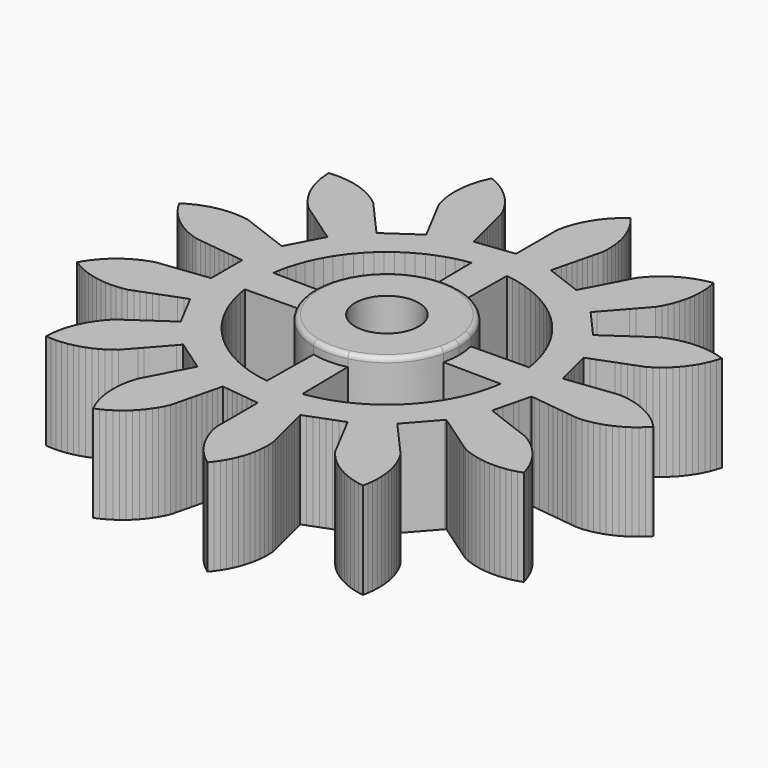
from build123d import *

# Parameters (mm, degrees)
F0_R     = 2.65
F1_DEPTH = 8
F2_R     = 2.65
F3_DEPTH = 1
F4_R     = 0.4


with BuildPart() as f1:
    # F0 (on Top) → F1 (new body)
    with BuildSketch(Plane.XY):
        Polygon((10.382417, -1.743136), (10.413784, -1.615875), (10.696508, -1.650203), (11.120593, -1.701697), (11.544679, -1.75319), (11.968765, -1.804683), (12.39285, -1.856177), (12.816936, -1.90767), (13.241021, -1.959163), (13.665107, -2.010657), (14.089192, -2.06215), (14.513278, -2.113643), (14.999577, -2.107836), (15.438656, -2.049373), (15.85245, -1.971319), (16.280043, -1.855683), (16.679997, -1.723948), (17.088695, -1.553142), (17.467877, -1.370008), (17.850595, -1.146994), (18.202434, -0.915635), (18.552539, -0.644278), (18.870936, -0.368705), (19.18236, -0.053707), (19.235458, 0), (18.924034, 0.314998), (18.612232, 0.598011), (18.262127, 0.869369), (17.915849, 1.10897), (17.533131, 1.331984), (17.158378, 1.52402), (16.74968, 1.694825), (16.352948, 1.835967), (15.925354, 1.951604), (15.513519, 2.039405), (15.07444, 2.097868), (14.654639, 2.130808), (14.230554, 2.079314), (13.806468, 2.027821), (13.382383, 1.976328), (12.958297, 1.924834), (12.534212, 1.873341), (12.110126, 1.821848), (11.686041, 1.770354), (11.261955, 1.718861), (10.83787, 1.667368), (10.413784, 1.615875), (10.307778, 2.045957), (10.201773, 2.47604), (10.095767, 2.906123), (9.989761, 3.336205), (9.883755, 3.766288), (9.777749, 4.196371), (9.671743, 4.626453), (9.640376, 4.753715), (10.039815, 4.905202), (10.439255, 5.05669), (10.838694, 5.208177), (11.238133, 5.359664), (11.637572, 5.511151), (12.037011, 5.662639), (12.436451, 5.814126), (12.83589, 5.965613), (13.235329, 6.117101), (13.634768, 6.268588), (14.009357, 6.505002), (14.352791, 6.748662), (14.693077, 7.032235), (15.001526, 7.3189), (15.301612, 7.644717), (15.56973, 7.969417), (15.824413, 8.331832), (16.047554, 8.68894), (16.252421, 9.081671), (16.426716, 9.464996), (16.578217, 9.881237), (16.700646, 10.284137), (16.278507, 10.418328), (15.870897, 10.524022), (15.434788, 10.601596), (15.016826, 10.652828), (14.574306, 10.67244), (14.498857, 10.675783), (14.05617, 10.66039), (13.636739, 10.623035), (13.199911, 10.549621), (12.789023, 10.457491), (12.365624, 10.327329), (11.970399, 10.182021), (11.537104, 9.961168), (11.185525, 9.718491), (10.833946, 9.475814), (10.482367, 9.233136), (10.130788, 8.990459), (9.779209, 8.747781), (9.42763, 8.505104), (9.076051, 8.262426), (8.724472, 8.019749), (8.372893, 7.777072), (8.138507, 7.615287), (7.844774, 7.946843), (7.551042, 8.278398), (7.257309, 8.609954), (6.963576, 8.94151), (6.669843, 9.273066), (6.37611, 9.604622), (6.082377, 9.936178), (5.995461, 10.034286), (6.278748, 10.35405), (6.562034, 10.673814), (6.84532, 10.993578), (7.128606, 11.313342), (7.411892, 11.633106), (7.695178, 11.95287), (7.978465, 12.272634), (8.261751, 12.592398), (8.545037, 12.912162), (8.828323, 13.231926), (9.050138, 13.61534), (9.240999, 13.990692), (9.410525, 14.399923), (9.550423, 14.797095), (9.664721, 15.225049), (9.751232, 15.637157), (9.80832, 16.076417), (9.839945, 16.496318), (9.838835, 16.939271), (9.815025, 17.359688), (9.755736, 17.798656), (9.676904, 18.212302), (9.240757, 18.134944), (8.830718, 18.039106), (8.408513, 17.905124), (8.014616, 17.756252), (7.613671, 17.567968), (7.242745, 17.36864), (6.870008, 17.129318), (6.528481, 16.882991), (6.190413, 16.596777), (5.884205, 16.30772), (5.586665, 15.979576), (5.321083, 15.652799), (5.122553, 15.274532), (4.924023, 14.896265), (4.725493, 14.517998), (4.526963, 14.139731), (4.328433, 13.761464), (4.129903, 13.383197), (3.931374, 13.00493), (3.732844, 12.626662), (3.534314, 12.248395), (3.335784, 11.870128), (2.921615, 12.027202), (2.507445, 12.184276), (2.093276, 12.341349), (1.679107, 12.498423), (1.264938, 12.655497), (0.850768, 12.812571), (0.436599, 12.969644), (0.314046, 13.016122), (0.416282, 13.430909), (0.518517, 13.845696), (0.620753, 14.260482), (0.722989, 14.675269), (0.825225, 15.090055), (0.92746, 15.504842), (1.029696, 15.919629), (1.131932, 16.334415), (1.234168, 16.749202), (1.336403, 17.163989), (1.354629, 17.606568), (1.349193, 18.027623), (1.309122, 18.468761), (1.248421, 18.885454), (1.150746, 19.317504), (1.035832, 19.722612), (0.882247, 20.138088), (0.715111, 20.524589), (0.508278, 20.916288), (0.291818, 21.277484), (0.035321, 21.638618), (-0.226712, 21.968248), (-0.576951, 21.697064), (-0.895485, 21.421648), (-1.207064, 21.106805), (-1.486658, 20.791932), (-1.754177, 20.438886), (-1.989984, 20.090013), (-2.208807, 19.704883), (-2.396741, 19.328056), (-2.563075, 18.917519), (-2.699877, 18.519269), (-2.810839, 18.090439), (-2.89414, 17.67767), (-2.89414, 17.250469), (-2.89414, 16.823269), (-2.89414, 16.396069), (-2.89414, 15.968868), (-2.89414, 15.541668), (-2.89414, 15.114468), (-2.89414, 14.687268), (-2.89414, 14.260067), (-2.89414, 13.832867), (-2.89414, 13.405667), (-3.333864, 13.352274), (-3.773589, 13.298882), (-4.213313, 13.24549), (-4.653038, 13.192098), (-5.092762, 13.138706), (-5.532487, 13.085313), (-5.972211, 13.031921), (-6.102326, 13.016122), (-6.204562, 13.430909), (-6.306797, 13.845696), (-6.409033, 14.260482), (-6.511269, 14.675269), (-6.613505, 15.090055), (-6.71574, 15.504842), (-6.817976, 15.919629), (-6.920212, 16.334415), (-7.022448, 16.749202), (-7.124683, 17.163989), (-7.314222, 17.564343), (-7.514709, 17.934643), (-7.755198, 18.306629), (-8.002593, 18.647383), (-8.289863, 18.984553), (-8.579878, 19.289855), (-8.908952, 19.586365), (-9.236559, 19.850923), (-9.601732, 20.101636), (-9.961254, 20.320865), (-10.356198, 20.521433), (-10.741403, 20.691533), (-10.925499, 20.288647), (-11.079555, 19.896749), (-11.20913, 19.473171), (-11.310369, 19.064431), (-11.383177, 18.627502), (-11.429844, 18.209005), (-11.444624, 17.766297), (-11.43591, 17.345297), (-11.392406, 16.904484), (-11.328462, 16.488277), (-11.227427, 16.057), (-11.109363, 15.652799), (-10.910833, 15.274532), (-10.712303, 14.896265), (-10.513773, 14.517998), (-10.315243, 14.139731), (-10.116713, 13.761464), (-9.918183, 13.383197), (-9.719654, 13.00493), (-9.521124, 12.626662), (-9.322594, 12.248395), (-9.124064, 11.870128), (-9.488608, 11.618502), (-9.853152, 11.366875), (-10.217696, 11.115249), (-10.58224, 10.863622), (-10.946784, 10.611995), (-11.311328, 10.360369), (-11.675873, 10.108742), (-11.783741, 10.034286), (-12.067028, 10.35405), (-12.350314, 10.673814), (-12.6336, 10.993578), (-12.916886, 11.313342), (-13.200172, 11.633106), (-13.483458, 11.95287), (-13.766745, 12.272634), (-14.050031, 12.592398), (-14.333317, 12.912162), (-14.616603, 13.231926), (-14.970485, 13.498339), (-15.320095, 13.733052), (-15.705908, 13.950669), (-16.083321, 14.137421), (-16.494377, 14.302469), (-16.893053, 14.438024), (-17.322229, 14.547643), (-17.735257, 14.629651), (-18.175114, 14.681941), (-18.595335, 14.70898), (-18.768187, 14.711215), (-19.210791, 14.693603), (-19.458382, 14.674638), (-19.43416, 14.232346), (-19.388445, 13.813744), (-19.306332, 13.378468), (-19.206023, 12.969499), (-19.067441, 12.548781), (-18.914277, 12.156534), (-18.721628, 11.757667), (-18.518263, 11.388939), (-18.274886, 11.018837), (-18.024846, 10.680019), (-17.734959, 10.345096), (-17.442577, 10.042061), (-17.090998, 9.799383), (-16.739419, 9.556706), (-16.38784, 9.314029), (-16.036261, 9.071351), (-15.684682, 8.828674), (-15.333103, 8.585996), (-14.981524, 8.343319), (-14.629945, 8.100641), (-14.278366, 7.857964), (-13.926787, 7.615287), (-14.132638, 7.22307), (-14.338489, 6.830854), (-14.544341, 6.438637), (-14.750192, 6.046421), (-14.956043, 5.654205), (-15.161894, 5.261988), (-15.367745, 4.869772), (-15.428656, 4.753715), (-15.828095, 4.905202), (-16.227535, 5.05669), (-16.626974, 5.208177), (-17.026413, 5.359664), (-17.425852, 5.511151), (-17.825291, 5.662639), (-18.224731, 5.814126), (-18.62417, 5.965613), (-19.023609, 6.117101), (-19.423048, 6.268588), (-19.860203, 6.340028), (-20.278844, 6.385385), (-20.721596, 6.398778), (-20.797085, 6.401062), (-21.239511, 6.379452), (-21.658376, 6.336209), (-22.094129, 6.256666), (-22.503683, 6.158774), (-22.925212, 6.022678), (-23.318357, 5.871833), (-23.718354, 5.681541), (-24.088276, 5.480357), (-24.380692, 5.295959), (-24.153701, 4.915586), (-23.918689, 4.566177), (-23.643698, 4.218919), (-23.364822, 3.903411), (-23.046596, 3.595287), (-22.72869, 3.319147), (-22.372745, 3.055497), (-22.021318, 2.823513), (-21.633823, 2.608906), (-21.254967, 2.425098), (-20.842638, 2.263255), (-20.442919, 2.130808), (-20.018834, 2.079314), (-19.594748, 2.027821), (-19.170663, 1.976328), (-18.746577, 1.924834), (-18.322492, 1.873341), (-17.898406, 1.821848), (-17.474321, 1.770354), (-17.050235, 1.718861), (-16.62615, 1.667368), (-16.202064, 1.615875), (-16.202064, 1.17292), (-16.202064, 0.729966), (-16.202064, 0.287012), (-16.202064, -0.155942), (-16.202064, -0.598896), (-16.202064, -1.04185), (-16.202064, -1.484804), (-16.202064, -1.615875), (-16.62615, -1.667368), (-17.050235, -1.718861), (-17.474321, -1.770354), (-17.898406, -1.821848), (-18.322492, -1.873341), (-18.746577, -1.924834), (-19.170663, -1.976328), (-19.594748, -2.027821), (-20.018834, -2.079314), (-20.442919, -2.130808), (-20.863201, -2.270707), (-21.254967, -2.425098), (-21.653229, -2.618995), (-22.021318, -2.823513), (-22.390657, -3.068047), (-22.72869, -3.319147), (-23.062704, -3.610081), (-23.364822, -3.903411), (-23.657723, -4.235702), (-23.918689, -4.566177), (-24.1654, -4.934066), (-24.380692, -5.295959), (-24.002934, -5.527275), (-23.632462, -5.727446), (-23.227591, -5.907133), (-22.834034, -6.056902), (-22.409067, -6.181845), (-21.999246, -6.278616), (-21.561548, -6.346651), (-21.142567, -6.388747), (-20.699724, -6.398693), (-20.278844, -6.385385), (-19.838533, -6.337071), (-19.423048, -6.268588), (-19.023609, -6.117101), (-18.62417, -5.965613), (-18.224731, -5.814126), (-17.825291, -5.662639), (-17.425852, -5.511151), (-17.026413, -5.359664), (-16.626974, -5.208177), (-16.227535, -5.05669), (-15.828095, -4.905202), (-15.428656, -4.753715), (-15.222805, -5.145931), (-15.016954, -5.538148), (-14.811103, -5.930364), (-14.605252, -6.32258), (-14.399401, -6.714797), (-14.19355, -7.107013), (-13.987699, -7.49923), (-13.926787, -7.615287), (-14.278366, -7.857964), (-14.629945, -8.100642), (-14.981524, -8.343319), (-15.333103, -8.585996), (-15.684682, -8.828674), (-16.036261, -9.071351), (-16.38784, -9.314029), (-16.739419, -9.556706), (-17.090998, -9.799383), (-17.442577, -10.042061), (-17.749703, -10.36125), (-18.024846, -10.680019), (-18.28738, -11.036788), (-18.518263, -11.388939), (-18.731656, -11.777104), (-18.914277, -12.156534), (-19.074828, -12.569367), (-19.206023, -12.969499), (-19.310951, -13.399846), (-19.388445, -13.813744), (-19.435931, -14.254146), (-19.458382, -14.674638), (-19.016395, -14.703905), (-18.595335, -14.70898), (-18.153335, -14.679932), (-17.735257, -14.629651), (-17.300903, -14.542791), (-16.893053, -14.438024), (-16.473873, -14.294857), (-16.083321, -14.137421), (-15.686581, -13.940429), (-15.320095, -13.733052), (-14.952671, -13.485649), (-14.616603, -13.231926), (-14.333317, -12.912162), (-14.050031, -12.592398), (-13.766745, -12.272634), (-13.483458, -11.95287), (-13.200172, -11.633106), (-12.916886, -11.313342), (-12.6336, -10.993578), (-12.350314, -10.673814), (-12.067028, -10.35405), (-11.783741, -10.034286), (-11.419197, -10.285912), (-11.054653, -10.537539), (-10.690109, -10.789165), (-10.325565, -11.040792), (-9.961021, -11.292419), (-9.596477, -11.544045), (-9.231933, -11.795672), (-9.124064, -11.870128), (-9.322594, -12.248395), (-9.521124, -12.626662), (-9.719654, -13.00493), (-9.918183, -13.383197), (-10.116713, -13.761464), (-10.315243, -14.139731), (-10.513773, -14.517998), (-10.712303, -14.896265), (-10.910833, -15.274532), (-11.109363, -15.652799), (-11.232975, -16.078156), (-11.328462, -16.488277), (-11.395126, -16.926186), (-11.43591, -17.345297), (-11.44447, -17.788168), (-11.429844, -18.209005), (-11.380152, -18.649163), (-11.310369, -19.064431), (-11.203285, -19.494247), (-11.079555, -19.896749), (-10.916936, -20.308773), (-10.741403, -20.691533), (-10.336443, -20.512047), (-9.961254, -20.320865), (-9.583381, -20.089736), (-9.236559, -19.850923), (-8.892323, -19.572158), (-8.579878, -19.289855), (-8.275245, -18.968284), (-8.002593, -18.647383), (-7.742844, -18.288581), (-7.514709, -17.934643), (-7.304345, -17.544828), (-7.124683, -17.163989), (-7.022448, -16.749202), (-6.920212, -16.334415), (-6.817976, -15.919629), (-6.71574, -15.504842), (-6.613505, -15.090055), (-6.511269, -14.675269), (-6.409033, -14.260482), (-6.306797, -13.845696), (-6.204562, -13.430909), (-6.102326, -13.016122), (-5.662602, -13.069515), (-5.222877, -13.122907), (-4.783153, -13.176299), (-4.343428, -13.229691), (-3.903704, -13.283083), (-3.463979, -13.336476), (-3.024255, -13.389868), (-2.89414, -13.405667), (-2.89414, -13.832867), (-2.89414, -14.260067), (-2.89414, -14.687268), (-2.89414, -15.114468), (-2.89414, -15.541668), (-2.89414, -15.968868), (-2.89414, -16.396069), (-2.89414, -16.823269), (-2.89414, -17.250469), (-2.89414, -17.67767), (-2.80592, -18.11175), (-2.699877, -18.519269), (-2.555399, -18.937999), (-2.396741, -19.328056), (-2.198507, -19.724177), (-1.989984, -20.090013), (-1.741432, -20.45666), (-1.486658, -20.791932), (-1.192095, -21.122751), (-0.895485, -21.421648), (-0.560016, -21.710905), (-0.226712, -21.968248), (0.048451, -21.621126), (0.291818, -21.277484), (0.518997, -20.897223), (0.715111, -20.524589), (0.890368, -20.11778), (1.035832, -19.722612), (1.156129, -19.296306), (1.248421, -18.885454), (1.311673, -18.447039), (1.349193, -18.027623), (1.354305, -17.584699), (1.336403, -17.163989), (1.234168, -16.749202), (1.131932, -16.334415), (1.029696, -15.919629), (0.92746, -15.504842), (0.825225, -15.090055), (0.722989, -14.675269), (0.620753, -14.260482), (0.518517, -13.845696), (0.416282, -13.430909), (0.314046, -13.016122), (0.728215, -12.859049), (1.142385, -12.701975), (1.556554, -12.544901), (1.970723, -12.387828), (2.384892, -12.230754), (2.799062, -12.07368), (3.213231, -11.916607), (3.335784, -11.870128), (3.534314, -12.248395), (3.732844, -12.626662), (3.931374, -13.00493), (4.129903, -13.383197), (4.328433, -13.761464), (4.526963, -14.139731), (4.725493, -14.517998), (4.924023, -14.896265), (5.122553, -15.274532), (5.321083, -15.652799), (5.600925, -15.99616), (5.884205, -16.30772), (6.206727, -16.611344), (6.528481, -16.882991), (6.888094, -17.141615), (7.242745, -17.36864), (7.633216, -17.577783), (8.014616, -17.756252), (8.429178, -17.912287), (8.830718, -18.039106), (9.262185, -18.13933), (9.676904, -18.212302), (9.759234, -17.777066), (9.815025, -17.359688), (9.839466, -16.917408), (9.839945, -16.496318), (9.806074, -16.054661), (9.751232, -15.637157), (9.659636, -15.203776), (9.550423, -14.797095), (9.402689, -14.379503), (9.240999, -13.990692), (9.039688, -13.596126), (8.828323, -13.231926), (8.545037, -12.912162), (8.261751, -12.592398), (7.978465, -12.272634), (7.695178, -11.95287), (7.411892, -11.633106), (7.128606, -11.313342), (6.84532, -10.993578), (6.562034, -10.673814), (6.278748, -10.35405), (5.995461, -10.034286), (6.289194, -9.70273), (6.582927, -9.371174), (6.87666, -9.039618), (7.170393, -8.708062), (7.464126, -8.376506), (7.757859, -8.04495), (8.051592, -7.713394), (8.138507, -7.615287), (8.490086, -7.857964), (8.841665, -8.100641), (9.193244, -8.343319), (9.544823, -8.585996), (9.896402, -8.828674), (10.247981, -9.071351), (10.59956, -9.314029), (10.951139, -9.556706), (11.302718, -9.799383), (11.654297, -10.042061), (12.061652, -10.216043), (12.457274, -10.360269), (12.883954, -10.479231), (13.295094, -10.570236), (13.733704, -10.632116), (14.153235, -10.668322), (14.596174, -10.672047), (15.016826, -10.652828), (15.456415, -10.598334), (15.870897, -10.524022), (16.299518, -10.412253), (16.700646, -10.284137), (16.57128, -9.860494), (16.426716, -9.464996), (16.24282, -9.062019), (16.047554, -8.68894), (15.812314, -8.313612), (15.56973, -7.969417), (15.287224, -7.628245), (15.001526, -7.3189), (14.67665, -7.017796), (14.352791, -6.748662), (13.991175, -6.492845), (13.634768, -6.268588), (13.235329, -6.117101), (12.83589, -5.965613), (12.436451, -5.814126), (12.037011, -5.662639), (11.637572, -5.511151), (11.238133, -5.359664), (10.838694, -5.208177), (10.439255, -5.05669), (10.039815, -4.905202), (9.640376, -4.753715), (9.746382, -4.323632), (9.852388, -3.89355), (9.958394, -3.463467), (10.0644, -3.033384), (10.170405, -2.603302), (10.276411, -2.173219), align=None)
        with BuildLine():
            ThreePointArc((-8.724542, -1.416478), (-8.89414, 0), (-8.724542, 1.416478))
            Line((-8.724542, 1.416478), (-13.511389, 1.478821))
            Line((-13.511389, 1.478821), (-13.427465, 2.008911))
            Line((-13.427465, 2.008911), (-13.280309, 2.667236))
            Line((-13.280309, 2.667236), (-13.092748, 3.312744))
            Line((-13.092748, 3.312744), (-12.864172, 3.947754))
            Line((-12.864172, 3.947754), (-12.596533, 4.566101))
            Line((-12.596533, 4.566101), (-12.290869, 5.166077))
            Line((-12.290869, 5.166077), (-11.9484, 5.745117))
            Line((-11.9484, 5.745117), (-11.56925, 6.30304))
            Line((-11.56925, 6.30304), (-11.156103, 6.835693))
            Line((-11.156103, 6.835693), (-10.711706, 7.339722))
            Line((-10.711706, 7.339722), (-10.233862, 7.817566))
            Line((-10.233862, 7.817566), (-9.729833, 8.261963))
            Line((-9.729833, 8.261963), (-9.19718, 8.67511))
            Line((-9.19718, 8.67511), (-8.639257, 9.05426))
            Line((-8.639257, 9.05426), (-8.060217, 9.396729))
            Line((-8.060217, 9.396729), (-7.460241, 9.702393))
            Line((-7.460241, 9.702393), (-6.841894, 9.970032))
            Line((-6.841894, 9.970032), (-6.206884, 10.198608))
            Line((-6.206884, 10.198608), (-5.561376, 10.386169))
            Line((-5.561376, 10.386169), (-4.903051, 10.533325))
            Line((-4.903051, 10.533325), (-4.372961, 10.617249))
            Line((-4.372961, 10.617249), (-4.310618, 5.830402))
            ThreePointArc((-4.310618, 5.830402), (-2.89414, 6), (-1.477662, 5.830402))
            Line((-1.477662, 5.830402), (-1.415319, 10.617249))
            Line((-1.415319, 10.617249), (-0.885229, 10.533325))
            Line((-0.885229, 10.533325), (-0.226904, 10.386169))
            Line((-0.226904, 10.386169), (0.418604, 10.198608))
            Line((0.418604, 10.198608), (1.053614, 9.970032))
            Line((1.053614, 9.970032), (1.671961, 9.702393))
            Line((1.671961, 9.702393), (2.271937, 9.396729))
            Line((2.271937, 9.396729), (2.850977, 9.05426))
            Line((2.850977, 9.05426), (3.4089, 8.67511))
            Line((3.4089, 8.67511), (3.941553, 8.261963))
            Line((3.941553, 8.261963), (4.445582, 7.817566))
            Line((4.445582, 7.817566), (4.923426, 7.339722))
            Line((4.923426, 7.339722), (5.367823, 6.835693))
            Line((5.367823, 6.835693), (5.78097, 6.30304))
            Line((5.78097, 6.30304), (6.16012, 5.745117))
            Line((6.16012, 5.745117), (6.502589, 5.166077))
            Line((6.502589, 5.166077), (6.808253, 4.566101))
            Line((6.808253, 4.566101), (7.075892, 3.947754))
            Line((7.075892, 3.947754), (7.304468, 3.312744))
            Line((7.304468, 3.312744), (7.492029, 2.667236))
            Line((7.492029, 2.667236), (7.639185, 2.008911))
            Line((7.639185, 2.008911), (7.723109, 1.478821))
            Line((7.723109, 1.478821), (2.936262, 1.416478))
            ThreePointArc((2.936262, 1.416478), (3.06331, 0.713297), (3.10586, 0))
            ThreePointArc((3.10586, 0), (3.06331, -0.713297), (2.936262, -1.416478))
            Line((2.936262, -1.416478), (7.723109, -1.478821))
            Line((7.723109, -1.478821), (7.639185, -2.008911))
            Line((7.639185, -2.008911), (7.492029, -2.667236))
            Line((7.492029, -2.667236), (7.304468, -3.312744))
            Line((7.304468, -3.312744), (7.075892, -3.947754))
            Line((7.075892, -3.947754), (6.808253, -4.566101))
            Line((6.808253, -4.566101), (6.502589, -5.166077))
            Line((6.502589, -5.166077), (6.16012, -5.745117))
            Line((6.16012, -5.745117), (5.78097, -6.30304))
            Line((5.78097, -6.30304), (5.367823, -6.835693))
            Line((5.367823, -6.835693), (4.923426, -7.339722))
            Line((4.923426, -7.339722), (4.445582, -7.817566))
            Line((4.445582, -7.817566), (3.941553, -8.261963))
            Line((3.941553, -8.261963), (3.4089, -8.67511))
            Line((3.4089, -8.67511), (2.850977, -9.05426))
            Line((2.850977, -9.05426), (2.271937, -9.396729))
            Line((2.271937, -9.396729), (1.671961, -9.702393))
            Line((1.671961, -9.702393), (1.053614, -9.970032))
            Line((1.053614, -9.970032), (0.418604, -10.198608))
            Line((0.418604, -10.198608), (-0.226904, -10.386169))
            Line((-0.226904, -10.386169), (-0.885229, -10.533325))
            Line((-0.885229, -10.533325), (-1.415319, -10.617249))
            Line((-1.415319, -10.617249), (-1.477662, -5.830402))
            ThreePointArc((-1.477662, -5.830402), (-2.89414, -6), (-4.310618, -5.830402))
            Line((-4.310618, -5.830402), (-4.372961, -10.617249))
            Line((-4.372961, -10.617249), (-4.903051, -10.533325))
            Line((-4.903051, -10.533325), (-5.561376, -10.386169))
            Line((-5.561376, -10.386169), (-6.206884, -10.198608))
            Line((-6.206884, -10.198608), (-6.841894, -9.970032))
            Line((-6.841894, -9.970032), (-7.460241, -9.702393))
            Line((-7.460241, -9.702393), (-8.060217, -9.396729))
            Line((-8.060217, -9.396729), (-8.639257, -9.05426))
            Line((-8.639257, -9.05426), (-9.19718, -8.67511))
            Line((-9.19718, -8.67511), (-9.729833, -8.261963))
            Line((-9.729833, -8.261963), (-10.233862, -7.817566))
            Line((-10.233862, -7.817566), (-10.711706, -7.339722))
            Line((-10.711706, -7.339722), (-11.156103, -6.835693))
            Line((-11.156103, -6.835693), (-11.56925, -6.30304))
            Line((-11.56925, -6.30304), (-11.9484, -5.745117))
            Line((-11.9484, -5.745117), (-12.290869, -5.166077))
            Line((-12.290869, -5.166077), (-12.596533, -4.566101))
            Line((-12.596533, -4.566101), (-12.864172, -3.947754))
            Line((-12.864172, -3.947754), (-13.092748, -3.312744))
            Line((-13.092748, -3.312744), (-13.280309, -2.667236))
            Line((-13.280309, -2.667236), (-13.427465, -2.008911))
            Line((-13.427465, -2.008911), (-13.511389, -1.478821))
            Line((-13.511389, -1.478821), (-8.724542, -1.416478))
        make_face(mode=Mode.SUBTRACT)
        with BuildLine():
            Line((-6.948766, 1.907959), (-7.060583, 1.649597))
            Line((-7.060583, 1.649597), (-7.151891, 1.395996))
            Line((-7.151891, 1.395996), (-8.724542, 1.416478))
            ThreePointArc((-8.724542, 1.416478), (-8.89414, 0), (-8.724542, -1.416478))
            Line((-8.724542, -1.416478), (-7.151891, -1.395996))
            Line((-7.151891, -1.395996), (-7.060583, -1.649597))
            Line((-7.060583, -1.649597), (-6.948766, -1.907959))
            Line((-6.948766, -1.907959), (-6.820959, -2.158752))
            Line((-6.820959, -2.158752), (-6.677648, -2.401062))
            Line((-6.677648, -2.401062), (-6.519445, -2.633911))
            Line((-6.519445, -2.633911), (-6.346899, -2.856323))
            Line((-6.346899, -2.856323), (-6.160742, -3.067505))
            Line((-6.160742, -3.067505), (-5.961645, -3.266602))
            Line((-5.961645, -3.266602), (-5.750463, -3.452759))
            Line((-5.750463, -3.452759), (-5.528051, -3.625305))
            Line((-5.528051, -3.625305), (-5.295202, -3.783508))
            Line((-5.295202, -3.783508), (-5.052892, -3.926819))
            Line((-5.052892, -3.926819), (-4.802099, -4.054626))
            Line((-4.802099, -4.054626), (-4.543737, -4.166443))
            Line((-4.543737, -4.166443), (-4.290136, -4.257751))
            Line((-4.290136, -4.257751), (-4.310618, -5.830402))
            ThreePointArc((-4.310618, -5.830402), (-2.89414, -6), (-1.477662, -5.830402))
            Line((-1.477662, -5.830402), (-1.498144, -4.257751))
            Line((-1.498144, -4.257751), (-1.244543, -4.166443))
            Line((-1.244543, -4.166443), (-0.986181, -4.054626))
            Line((-0.986181, -4.054626), (-0.735388, -3.926819))
            Line((-0.735388, -3.926819), (-0.493078, -3.783508))
            Line((-0.493078, -3.783508), (-0.260229, -3.625305))
            Line((-0.260229, -3.625305), (-0.037817, -3.452759))
            Line((-0.037817, -3.452759), (0.173365, -3.266602))
            Line((0.173365, -3.266602), (0.372462, -3.067505))
            Line((0.372462, -3.067505), (0.558619, -2.856323))
            Line((0.558619, -2.856323), (0.731165, -2.633911))
            Line((0.731165, -2.633911), (0.889368, -2.401062))
            Line((0.889368, -2.401062), (1.032679, -2.158752))
            Line((1.032679, -2.158752), (1.160486, -1.907959))
            Line((1.160486, -1.907959), (1.272303, -1.649597))
            Line((1.272303, -1.649597), (1.363611, -1.395996))
            Line((1.363611, -1.395996), (2.936262, -1.416478))
            ThreePointArc((2.936262, -1.416478), (3.06331, -0.713297), (3.10586, 0))
            ThreePointArc((3.10586, 0), (3.06331, 0.713297), (2.936262, 1.416478))
            Line((2.936262, 1.416478), (1.363611, 1.395996))
            Line((1.363611, 1.395996), (1.272303, 1.649597))
            Line((1.272303, 1.649597), (1.160486, 1.907959))
            Line((1.160486, 1.907959), (1.032679, 2.158752))
            Line((1.032679, 2.158752), (0.889368, 2.401062))
            Line((0.889368, 2.401062), (0.731165, 2.633911))
            Line((0.731165, 2.633911), (0.558619, 2.856323))
            Line((0.558619, 2.856323), (0.372462, 3.067505))
            Line((0.372462, 3.067505), (0.173365, 3.266602))
            Line((0.173365, 3.266602), (-0.037817, 3.452759))
            Line((-0.037817, 3.452759), (-0.260229, 3.625305))
            Line((-0.260229, 3.625305), (-0.493078, 3.783508))
            Line((-0.493078, 3.783508), (-0.735388, 3.926819))
            Line((-0.735388, 3.926819), (-0.986181, 4.054626))
            Line((-0.986181, 4.054626), (-1.244543, 4.166443))
            Line((-1.244543, 4.166443), (-1.498144, 4.257751))
            Line((-1.498144, 4.257751), (-1.477662, 5.830402))
            ThreePointArc((-1.477662, 5.830402), (-2.89414, 6), (-4.310618, 5.830402))
            Line((-4.310618, 5.830402), (-4.290136, 4.257751))
            Line((-4.290136, 4.257751), (-4.543737, 4.166443))
            Line((-4.543737, 4.166443), (-4.802099, 4.054626))
            Line((-4.802099, 4.054626), (-5.052892, 3.926819))
            Line((-5.052892, 3.926819), (-5.295202, 3.783508))
            Line((-5.295202, 3.783508), (-5.528051, 3.625305))
            Line((-5.528051, 3.625305), (-5.750463, 3.452759))
            Line((-5.750463, 3.452759), (-5.961645, 3.266602))
            Line((-5.961645, 3.266602), (-6.160742, 3.067505))
            Line((-6.160742, 3.067505), (-6.346899, 2.856323))
            Line((-6.346899, 2.856323), (-6.519445, 2.633911))
            Line((-6.519445, 2.633911), (-6.677648, 2.401062))
            Line((-6.677648, 2.401062), (-6.820959, 2.158752))
            Line((-6.820959, 2.158752), (-6.948766, 1.907959))
        make_face()
        with Locations((-2.89414, 0)):
            Circle(F0_R, mode=Mode.SUBTRACT)
        with BuildLine():
            Line((-7.151891, 1.395996), (-7.060583, 1.649597))
            Line((-7.060583, 1.649597), (-6.948766, 1.907959))
            Line((-6.948766, 1.907959), (-6.820959, 2.158752))
            Line((-6.820959, 2.158752), (-6.677648, 2.401062))
            Line((-6.677648, 2.401062), (-6.519445, 2.633911))
            Line((-6.519445, 2.633911), (-6.346899, 2.856323))
            Line((-6.346899, 2.856323), (-6.160742, 3.067505))
            Line((-6.160742, 3.067505), (-5.961645, 3.266602))
            Line((-5.961645, 3.266602), (-5.750463, 3.452759))
            Line((-5.750463, 3.452759), (-5.528051, 3.625305))
            Line((-5.528051, 3.625305), (-5.295202, 3.783508))
            Line((-5.295202, 3.783508), (-5.052892, 3.926819))
            Line((-5.052892, 3.926819), (-4.802099, 4.054626))
            Line((-4.802099, 4.054626), (-4.543737, 4.166443))
            Line((-4.543737, 4.166443), (-4.290136, 4.257751))
            Line((-4.290136, 4.257751), (-4.310618, 5.830402))
            ThreePointArc((-4.310618, 5.830402), (-7.136781, 4.242641), (-8.724542, 1.416478))
            Line((-8.724542, 1.416478), (-7.151891, 1.395996))
        make_face()
        with BuildLine():
            ThreePointArc((2.936262, 1.416478), (1.348501, 4.242641), (-1.477662, 5.830402))
            Line((-1.477662, 5.830402), (-1.498144, 4.257751))
            Line((-1.498144, 4.257751), (-1.244543, 4.166443))
            Line((-1.244543, 4.166443), (-0.986181, 4.054626))
            Line((-0.986181, 4.054626), (-0.735388, 3.926819))
            Line((-0.735388, 3.926819), (-0.493078, 3.783508))
            Line((-0.493078, 3.783508), (-0.260229, 3.625305))
            Line((-0.260229, 3.625305), (-0.037817, 3.452759))
            Line((-0.037817, 3.452759), (0.173365, 3.266602))
            Line((0.173365, 3.266602), (0.372462, 3.067505))
            Line((0.372462, 3.067505), (0.558619, 2.856323))
            Line((0.558619, 2.856323), (0.731165, 2.633911))
            Line((0.731165, 2.633911), (0.889368, 2.401062))
            Line((0.889368, 2.401062), (1.032679, 2.158752))
            Line((1.032679, 2.158752), (1.160486, 1.907959))
            Line((1.160486, 1.907959), (1.272303, 1.649597))
            Line((1.272303, 1.649597), (1.363611, 1.395996))
            Line((1.363611, 1.395996), (2.936262, 1.416478))
        make_face()
        with BuildLine():
            Line((-1.498144, -4.257751), (-1.477662, -5.830402))
            ThreePointArc((-1.477662, -5.830402), (1.348501, -4.242641), (2.936262, -1.416478))
            Line((2.936262, -1.416478), (1.363611, -1.395996))
            Line((1.363611, -1.395996), (1.272303, -1.649597))
            Line((1.272303, -1.649597), (1.160486, -1.907959))
            Line((1.160486, -1.907959), (1.032679, -2.158752))
            Line((1.032679, -2.158752), (0.889368, -2.401062))
            Line((0.889368, -2.401062), (0.731165, -2.633911))
            Line((0.731165, -2.633911), (0.558619, -2.856323))
            Line((0.558619, -2.856323), (0.372462, -3.067505))
            Line((0.372462, -3.067505), (0.173365, -3.266602))
            Line((0.173365, -3.266602), (-0.037817, -3.452759))
            Line((-0.037817, -3.452759), (-0.260229, -3.625305))
            Line((-0.260229, -3.625305), (-0.493078, -3.783508))
            Line((-0.493078, -3.783508), (-0.735388, -3.926819))
            Line((-0.735388, -3.926819), (-0.986181, -4.054626))
            Line((-0.986181, -4.054626), (-1.244543, -4.166443))
            Line((-1.244543, -4.166443), (-1.498144, -4.257751))
        make_face()
        with BuildLine():
            Line((-7.151891, -1.395996), (-8.724542, -1.416478))
            ThreePointArc((-8.724542, -1.416478), (-7.136781, -4.242641), (-4.310618, -5.830402))
            Line((-4.310618, -5.830402), (-4.290136, -4.257751))
            Line((-4.290136, -4.257751), (-4.543737, -4.166443))
            Line((-4.543737, -4.166443), (-4.802099, -4.054626))
            Line((-4.802099, -4.054626), (-5.052892, -3.926819))
            Line((-5.052892, -3.926819), (-5.295202, -3.783508))
            Line((-5.295202, -3.783508), (-5.528051, -3.625305))
            Line((-5.528051, -3.625305), (-5.750463, -3.452759))
            Line((-5.750463, -3.452759), (-5.961645, -3.266602))
            Line((-5.961645, -3.266602), (-6.160742, -3.067505))
            Line((-6.160742, -3.067505), (-6.346899, -2.856323))
            Line((-6.346899, -2.856323), (-6.519445, -2.633911))
            Line((-6.519445, -2.633911), (-6.677648, -2.401062))
            Line((-6.677648, -2.401062), (-6.820959, -2.158752))
            Line((-6.820959, -2.158752), (-6.948766, -1.907959))
            Line((-6.948766, -1.907959), (-7.060583, -1.649597))
            Line((-7.060583, -1.649597), (-7.151891, -1.395996))
        make_face()
    extrude(amount=F1_DEPTH)

    # F2 (on face) → F3 (join)
    with BuildSketch(Plane.XY.offset(8)):
        with BuildLine():
            ThreePointArc((2.936262, -1.416478), (3.06331, -0.713297), (3.10586, 0))
            ThreePointArc((3.10586, 0), (3.06331, 0.713297), (2.936262, 1.416478))
            ThreePointArc((2.936262, 1.416478), (1.348501, 4.242641), (-1.477662, 5.830402))
            ThreePointArc((-1.477662, 5.830402), (-2.89414, 6), (-4.310618, 5.830402))
            ThreePointArc((-4.310618, 5.830402), (-7.136781, 4.242641), (-8.724542, 1.416478))
            ThreePointArc((-8.724542, 1.416478), (-8.89414, 0), (-8.724542, -1.416478))
            ThreePointArc((-8.724542, -1.416478), (-7.136781, -4.242641), (-4.310618, -5.830402))
            ThreePointArc((-4.310618, -5.830402), (-2.89414, -6), (-1.477662, -5.830402))
            ThreePointArc((-1.477662, -5.830402), (1.348501, -4.242641), (2.936262, -1.416478))
        make_face()
        with Locations((-2.89414, 0)):
            Circle(F2_R, mode=Mode.SUBTRACT)
    extrude(amount=F3_DEPTH)

    # F4
    f4_edges = [f1.edges().sort_by_distance(p)[0] for p in [
        (-1.477662, -5.830402, 9),
    ]]
    fillet(f4_edges, radius=F4_R)


solid = f1.part
